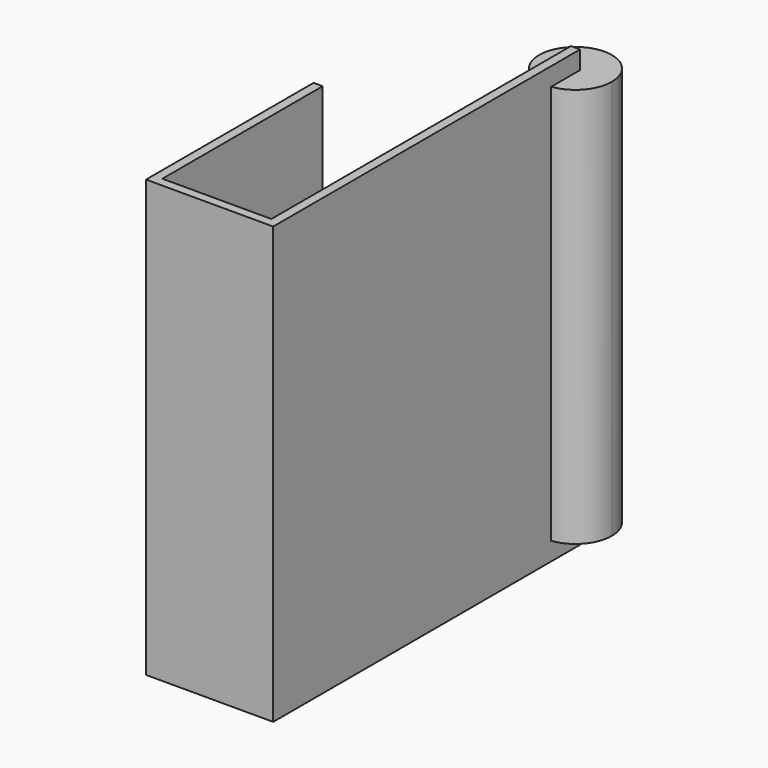
from build123d import *

# Parameters (mm, degrees)
F1_DEPTH = 152.4
F2_DEPTH = 139.7


with BuildPart() as f1:
    # F0 (on Top) → F1 (new body, symmetric)
    with BuildSketch(Plane.XY):
        with BuildLine():
            Line((-77.723362, 0), (11.176638, 0))
            Line((11.176638, 0), (11.176638, 242.86254))
            ThreePointArc((11.176638, 242.86254), (8.001638, 242.663321), (4.826638, 242.86254))
            Line((4.826638, 242.86254), (4.826638, 6.35))
            Line((4.826638, 6.35), (-71.373362, 6.35))
            Line((-71.373362, 6.35), (-71.373362, 146.409275))
            Line((-71.373362, 146.409275), (-77.723362, 146.409275))
            Line((-77.723362, 146.409275), (-77.723362, 0))
        make_face()
        with BuildLine():
            ThreePointArc((4.826638, 242.86254), (8.001638, 242.663321), (11.176638, 242.86254))
            Line((11.176638, 242.86254), (11.176638, 268.063321))
            Line((11.176638, 268.063321), (4.826638, 268.063321))
            Line((4.826638, 268.063321), (4.826638, 242.86254))
        make_face()
    extrude(amount=F1_DEPTH, both=True)

    # F0 (on Top) → F2 (join, symmetric)
    with BuildSketch(Plane.XY):
        with BuildLine():
            Line((11.176638, 268.063321), (11.176638, 242.86254))
            ThreePointArc((11.176638, 242.86254), (27.051638, 251.262801), (33.401638, 268.063321))
            ThreePointArc((33.401638, 268.063321), (-8.798883, 287.113321), (4.826638, 242.86254))
            Line((4.826638, 242.86254), (4.826638, 268.063321))
            Line((4.826638, 268.063321), (11.176638, 268.063321))
        make_face()
    extrude(amount=F2_DEPTH, both=True)


solid = f1.part
